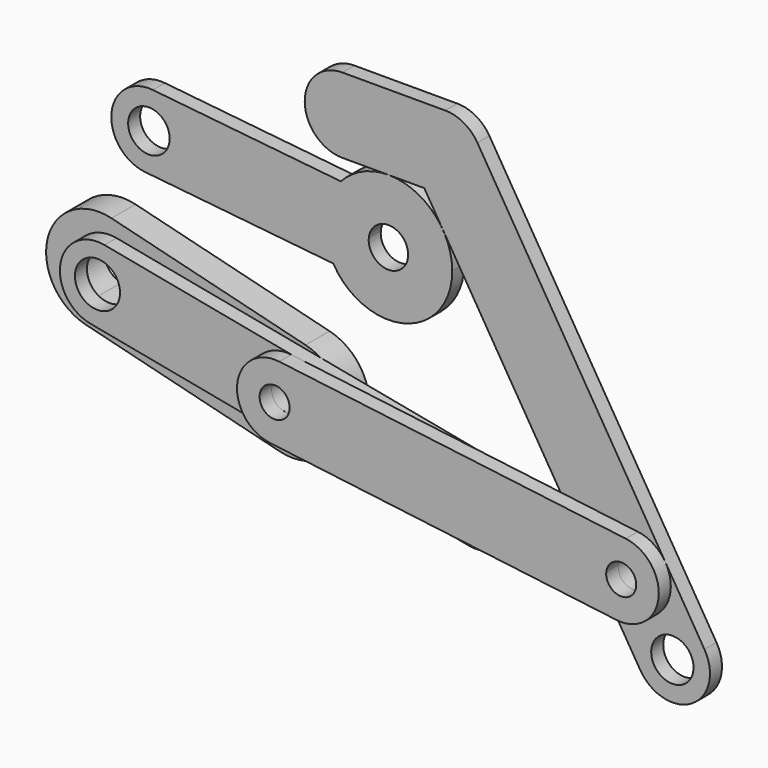
from build123d import *

# Parameters (mm, degrees)
F1_DEPTH = 2.54
F3_DEPTH = 5.08
F5_DEPTH = 2.54
F7_DEPTH = 2.54


with BuildPart() as f1:
    # F0 (on Front) → F1 (new body)
    with BuildSketch(Plane.XZ):
        with BuildLine():
            ThreePointArc((31.1483665572, -9.5817770253), (29.9264593037, -6.4295066964), (29.7404423096, -3.0538196197))
            ThreePointArc((29.7404423096, -3.0538196197), (30.6085917345, 0.2136231324), (32.4456119445, 3.0517954863))
            Line((32.4456119445, 3.0517954863), (0.6486226936, 6.3167862558))
            ThreePointArc((0.6486226936, 6.3167862558), (-6.3167862558, 0.6486226936), (-0.6486226936, -6.3167862558))
            Line((-0.6486226936, -6.3167862558), (31.1483665572, -9.5817770253))
        make_face()
        with BuildLine():
            ThreePointArc((3.5104216462, 0), (3.5058283163, -0.1795214477), (3.4920603475, -0.3585730935))
            ThreePointArc((3.4920603475, -0.3585730935), (-3.5058283163, 0.1795214477), (3.5104216462, 0))
        make_face(mode=Mode.SUBTRACT)
        with BuildLine():
            ThreePointArc((32.4456119445, 3.0517954863), (30.6085917345, 0.2136231324), (29.7404423096, -3.0538196197))
            ThreePointArc((29.7404423096, -3.0538196197), (29.9264593037, -6.4295066964), (31.1483665572, -9.5817770253))
            Line((31.1483665572, -9.5817770253), (39.8212547282, -10.4723298886))
            ThreePointArc((39.8212547282, -10.4723298886), (46.7866636776, -4.8041663265), (41.1185001155, 2.161242623))
            Line((41.1185001155, 2.161242623), (32.4456119445, 3.0517954863))
        make_face()
        with BuildLine():
            ThreePointArc((43.8018488142, -4.1555436328), (40.2994818431, -7.4831551945), (37.1553339422, -3.8151983951))
            ThreePointArc((37.1553339422, -3.8151983951), (40.6402730006, -0.8279320711), (43.8018488142, -4.1555436328))
        make_face(mode=Mode.SUBTRACT)
        with BuildLine():
            ThreePointArc((51.2557280433, -4.1555436328), (44.3290253099, 5.9162760244), (32.4456119445, 3.0517954863))
            Line((32.4456119445, 3.0517954863), (41.1185001155, 2.161242623))
            ThreePointArc((41.1185001155, 2.161242623), (46.7866636776, -4.8041663265), (39.8212547282, -10.4723298886))
            Line((39.8212547282, -10.4723298886), (31.1483665572, -9.5817770253))
            ThreePointArc((31.1483665572, -9.5817770253), (43.280050893, -14.5688763698), (51.2557280433, -4.1555436328))
        make_face()
    extrude(amount=F1_DEPTH)


with BuildPart() as f1b:
    # F0 (on Front) → F1, piece 2 (new body)
    with BuildSketch(Plane.XZ):
        with BuildLine():
            ThreePointArc((-7.4963600697, -19.4053518065), (-14.9256821311, -24.4501683252), (-9.8808656124, -31.8794903866))
            Line((-9.8808656124, -31.8794903866), (54.0387484568, -44.0981035642))
            ThreePointArc((54.0387484568, -44.0981035642), (61.4680705182, -39.0532870454), (56.4232539994, -31.623964984))
            Line((56.4232539994, -31.623964984), (-7.4963600697, -19.4053518065))
        make_face()
        with BuildLine():
            ThreePointArc((-4.8786128411, -25.6424210966), (-4.8955902734, -26.0016978721), (-4.946371267, -26.3577727594))
            ThreePointArc((-4.946371267, -26.3577727594), (-12.4816354087, -25.283144321), (-4.8786128411, -25.6424210966))
        make_face(mode=Mode.SUBTRACT)
        with BuildLine():
            ThreePointArc((25.7660219095, -32.2286287939), (22.794293085, -34.2465554014), (20.7763664775, -31.2748265768))
            ThreePointArc((20.7763664775, -31.2748265768), (23.5107120439, -29.2230459736), (25.8111941935, -31.7517276853))
            ThreePointArc((25.8111941935, -31.7517276853), (25.7998759053, -31.9912455357), (25.7660219095, -32.2286287939))
        make_face(mode=Mode.SUBTRACT)
        with BuildLine():
            ThreePointArc((59.6282880018, -37.8610342741), (54.8163442693, -42.2387266545), (50.9119174019, -37.035415795))
            ThreePointArc((50.9119174019, -37.035415795), (55.6456581869, -33.4833418937), (59.6282880018, -37.8610342741))
        make_face(mode=Mode.SUBTRACT)
    extrude(amount=F1_DEPTH)


with BuildPart() as f3:
    # F2 (on Front) → F3 (new body)
    with BuildSketch(Plane.XZ):
        with BuildLine():
            ThreePointArc((20.1156061917, -42.1772935621), (30.8963147246, -35.7088684423), (24.4278896049, -24.9281599095))
            Line((24.4278896049, -24.9281599095), (-8.3587867976, -16.7314908088))
            ThreePointArc((-8.3587867976, -16.7314908088), (-19.1394953305, -23.1999159286), (-12.6710702108, -33.9806244614))
            Line((-12.6710702108, -33.9806244614), (20.1156061917, -42.1772935621))
        make_face()
        with BuildLine():
            Line((14.6086621042, -35.5642133956), (-10.7913378958, -29.2142133956))
            ThreePointArc((-10.7913378958, -29.2142133956), (-13.56352009, -24.5939097387), (-8.943216433, -21.8217275445))
            Line((-8.943216433, -21.8217275445), (16.456783567, -28.1717275445))
            ThreePointArc((16.456783567, -28.1717275445), (19.2289657611, -32.7920312015), (14.6086621042, -35.5642133956))
        make_face(mode=Mode.SUBTRACT)
    extrude(amount=-F3_DEPTH)


with BuildPart() as f5:
    # F4 (on Front) → F5 (new body)
    with BuildSketch(Plane.XZ):
        with BuildLine():
            ThreePointArc((50.0881612421, 19.3303069887), (45.5980331816, 17.4704350492), (43.7381612421, 12.9803069887))
            Line((43.7381612421, 12.9803069887), (50.0881612421, 12.9803069887))
            Line((50.0881612421, 12.9803069887), (53.3955655031, 7.5596449392))
            ThreePointArc((53.3955655031, 7.5596449392), (56.2598361169, 11.486008076), (55.5088232916, 16.2877112497))
            ThreePointArc((55.5088232916, 16.2877112497), (53.1962541416, 18.5176582082), (50.0881612421, 19.3303069887))
        make_face()
        with BuildLine():
            Line((50.0881612421, 12.9803069887), (43.7381612421, 12.9803069887))
            ThreePointArc((43.7381612421, 12.9803069887), (43.9749090793, 11.2625619573), (44.6674991927, 9.6729027277))
            Line((44.6674991927, 9.6729027277), (46.5239318608, 6.6303069887))
            Line((46.5239318608, 6.6303069887), (50.0881612421, 6.6303069887))
            ThreePointArc((50.0881612421, 6.6303069887), (51.8059062736, 6.8670548258), (53.3955655031, 7.5596449392))
            Line((53.3955655031, 7.5596449392), (50.0881612421, 12.9803069887))
        make_face()
        with BuildLine():
            ThreePointArc((44.6674991927, 9.6729027277), (43.9749090793, 11.2625619573), (43.7381612421, 12.9803069887))
            ThreePointArc((43.7381612421, 12.9803069887), (45.5980331816, 17.4704350492), (50.0881612421, 19.3303069887))
            Line((50.0881612421, 19.3303069887), (32.6830678845, 19.3303069887))
            ThreePointArc((32.6830678845, 19.3303069887), (26.3330678845, 12.9803069887), (32.6830678845, 6.6303069887))
            Line((32.6830678845, 6.6303069887), (46.5239318608, 6.6303069887))
            Line((46.5239318608, 6.6303069887), (44.6674991927, 9.6729027277))
        make_face()
        with BuildLine():
            ThreePointArc((55.5088232916, 16.2877112497), (56.2598361169, 11.486008076), (53.3955655031, 7.5596449392))
            ThreePointArc((53.3955655031, 7.5596449392), (51.8059062736, 6.8670548258), (50.0881612421, 6.6303069887))
            Line((50.0881612421, 6.6303069887), (46.5239318608, 6.6303069887))
            Line((46.5239318608, 6.6303069887), (83.0295916951, -53.2005540856))
            ThreePointArc((83.0295916951, -53.2005540856), (91.7576580055, -55.3138118741), (93.870915794, -46.5857455637))
            Line((93.870915794, -46.5857455637), (55.5088232916, 16.2877112497))
        make_face()
        with BuildLine():
            ThreePointArc((92.0279713809, -49.8931498246), (86.6990917317, -53.0130048037), (86.5867957044, -46.8390398695))
            ThreePointArc((86.5867957044, -46.8390398695), (90.2014157574, -46.7732948456), (92.0279713809, -49.8931498246))
        make_face(mode=Mode.SUBTRACT)
        with BuildLine():
            ThreePointArc((83.158406927, -41.2200905455), (79.6671804029, -40.3747874301), (80.5124835183, -36.8835609059))
            ThreePointArc((80.5124835183, -36.8835609059), (83.0786823824, -36.8368852379), (84.3754452226, -39.0518257257))
            ThreePointArc((84.3754452226, -39.0518257257), (84.0503857105, -40.2950628855), (83.158406927, -41.2200905455))
        make_face(mode=Mode.SUBTRACT)
    extrude(amount=F5_DEPTH)


with BuildPart() as f7:
    # F6 (on face) → F7 (new body)
    with BuildSketch(Plane.XZ.offset(2.54)):
        with BuildLine():
            ThreePointArc((24.0566500052, -25.4504929517), (16.9699594599, -30.9662718736), (22.4857383818, -38.0529624189))
            Line((22.4857383818, -38.0529624189), (81.0499894109, -45.3530604593))
            ThreePointArc((81.0499894109, -45.3530604593), (88.1366799562, -39.8372815374), (82.6209010344, -32.7505909921))
            Line((82.6209010344, -32.7505909921), (24.0566500052, -25.4504929517))
        make_face()
        with BuildLine():
            ThreePointArc((84.3754452226, -39.0518257257), (81.6780515908, -41.5869445088), (79.3149513292, -38.737643401))
            ThreePointArc((79.3149513292, -38.737643401), (81.9928388545, -36.5167069425), (84.3754452226, -39.0518257257))
        make_face(mode=Mode.SUBTRACT)
        with BuildLine():
            ThreePointArc((25.8111941935, -31.7517276853), (25.8063129767, -31.9091213171), (25.7916880869, -32.06591001))
            ThreePointArc((25.7916880869, -32.06591001), (20.7360754104, -31.5943340535), (25.8111941935, -31.7517276853))
        make_face(mode=Mode.SUBTRACT)
    extrude(amount=F7_DEPTH)


solid = Compound([f1.part, f1b.part, f3.part, f5.part, f7.part])
